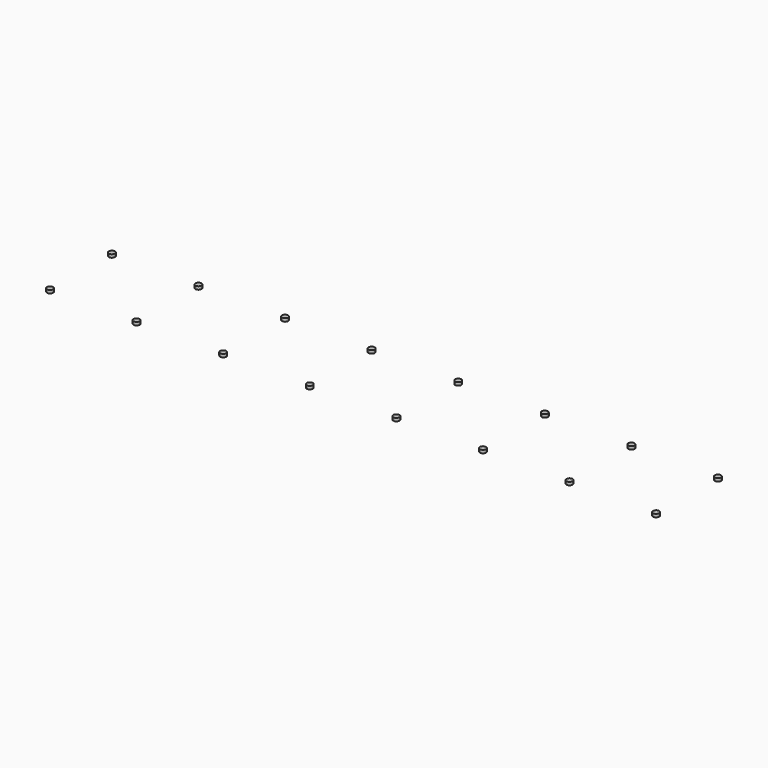
from build123d import *

# Parameters (mm, degrees)
F1_DEPTH = 1


with BuildPart() as f1:
    # F0 (on Top) → F1 (new body)
    with BuildSketch(Plane.XY):
        with BuildLine():
            ThreePointArc((196, 24), (196.7071067812, 24.2928932188), (197, 25))
            Line((197, 25), (196, 25))
            Line((196, 25), (196, 24))
        make_face()
        with BuildLine():
            Line((196, 25), (196, 26))
            ThreePointArc((196, 26), (195.2928932188, 25.7071067812), (195, 25))
            Line((195, 25), (196, 25))
        make_face()
        with BuildLine():
            ThreePointArc((195, 25), (195.2928932188, 24.2928932188), (196, 24))
            Line((196, 24), (196, 25))
            Line((196, 25), (195, 25))
        make_face()
        with BuildLine():
            Line((196, 25), (197, 25))
            ThreePointArc((197, 25), (196.7071067812, 25.7071067812), (196, 26))
            Line((196, 26), (196, 25))
        make_face()
    extrude(amount=F1_DEPTH)


with BuildPart() as f1b:
    # F0 (on Top) → F1, piece 2 (new body)
    with BuildSketch(Plane.XY):
        with BuildLine():
            Line((168, 25), (169, 25))
            ThreePointArc((169, 25), (168.7071067812, 25.7071067812), (168, 26))
            Line((168, 26), (168, 25))
        make_face()
        with BuildLine():
            Line((168, 25), (168, 26))
            ThreePointArc((168, 26), (167.2928932188, 25.7071067812), (167, 25))
            Line((167, 25), (168, 25))
        make_face()
        with BuildLine():
            ThreePointArc((167, 25), (167.2928932188, 24.2928932188), (168, 24))
            Line((168, 24), (168, 25))
            Line((168, 25), (167, 25))
        make_face()
        with BuildLine():
            ThreePointArc((168, 24), (168.7071067812, 24.2928932188), (169, 25))
            Line((169, 25), (168, 25))
            Line((168, 25), (168, 24))
        make_face()
    extrude(amount=F1_DEPTH)


with BuildPart() as f1c:
    # F0 (on Top) → F1, piece 3 (new body)
    with BuildSketch(Plane.XY):
        with BuildLine():
            Line((196, 0), (197, 0))
            ThreePointArc((197, 0), (196.7071067812, 0.7071067812), (196, 1))
            Line((196, 1), (196, 0))
        make_face()
        with BuildLine():
            Line((196, 0), (196, 1))
            ThreePointArc((196, 1), (195.2928932188, 0.7071067812), (195, 0))
            Line((195, 0), (196, 0))
        make_face()
        with BuildLine():
            ThreePointArc((195, 0), (195.2928932188, -0.7071067812), (196, -1))
            Line((196, -1), (196, 0))
            Line((196, 0), (195, 0))
        make_face()
        with BuildLine():
            ThreePointArc((196, -1), (196.7071067812, -0.7071067812), (197, 0))
            Line((197, 0), (196, 0))
            Line((196, 0), (196, -1))
        make_face()
    extrude(amount=F1_DEPTH)


with BuildPart() as f1d:
    # F0 (on Top) → F1, piece 4 (new body)
    with BuildSketch(Plane.XY):
        with BuildLine():
            Line((0, 25), (1, 25))
            ThreePointArc((1, 25), (0.7071067812, 25.7071067812), (0, 26))
            Line((0, 26), (0, 25))
        make_face()
        with BuildLine():
            Line((0, 25), (0, 26))
            ThreePointArc((0, 26), (-0.7071067812, 25.7071067812), (-1, 25))
            Line((-1, 25), (0, 25))
        make_face()
        with BuildLine():
            ThreePointArc((-1, 25), (-0.7071067812, 24.2928932188), (0, 24))
            Line((0, 24), (0, 25))
            Line((0, 25), (-1, 25))
        make_face()
        with BuildLine():
            ThreePointArc((0, 24), (0.7071067812, 24.2928932188), (1, 25))
            Line((1, 25), (0, 25))
            Line((0, 25), (0, 24))
        make_face()
    extrude(amount=F1_DEPTH)


with BuildPart() as f1e:
    # F0 (on Top) → F1, piece 5 (new body)
    with BuildSketch(Plane.XY):
        with BuildLine():
            Line((28, 0), (29, 0))
            ThreePointArc((29, 0), (28.7071067812, 0.7071067812), (28, 1))
            Line((28, 1), (28, 0))
        make_face()
        with BuildLine():
            Line((28, 0), (28, 1))
            ThreePointArc((28, 1), (27.2928932188, 0.7071067812), (27, 0))
            Line((27, 0), (28, 0))
        make_face()
        with BuildLine():
            ThreePointArc((27, 0), (27.2928932188, -0.7071067812), (28, -1))
            Line((28, -1), (28, 0))
            Line((28, 0), (27, 0))
        make_face()
        with BuildLine():
            ThreePointArc((28, -1), (28.7071067812, -0.7071067812), (29, 0))
            Line((29, 0), (28, 0))
            Line((28, 0), (28, -1))
        make_face()
    extrude(amount=F1_DEPTH)


with BuildPart() as f1f:
    # F0 (on Top) → F1, piece 6 (new body)
    with BuildSketch(Plane.XY):
        with BuildLine():
            ThreePointArc((28, 24), (28.7071067812, 24.2928932188), (29, 25))
            Line((29, 25), (28, 25))
            Line((28, 25), (28, 24))
        make_face()
        with BuildLine():
            Line((28, 25), (28, 26))
            ThreePointArc((28, 26), (27.2928932188, 25.7071067812), (27, 25))
            Line((27, 25), (28, 25))
        make_face()
        with BuildLine():
            ThreePointArc((27, 25), (27.2928932188, 24.2928932188), (28, 24))
            Line((28, 24), (28, 25))
            Line((28, 25), (27, 25))
        make_face()
        with BuildLine():
            Line((28, 25), (29, 25))
            ThreePointArc((29, 25), (28.7071067812, 25.7071067812), (28, 26))
            Line((28, 26), (28, 25))
        make_face()
    extrude(amount=F1_DEPTH)


with BuildPart() as f1g:
    # F0 (on Top) → F1, piece 7 (new body)
    with BuildSketch(Plane.XY):
        with BuildLine():
            Line((56, 0), (57, 0))
            ThreePointArc((57, 0), (56.7071067812, 0.7071067812), (56, 1))
            Line((56, 1), (56, 0))
        make_face()
        with BuildLine():
            Line((56, 0), (56, 1))
            ThreePointArc((56, 1), (55.2928932188, 0.7071067812), (55, 0))
            Line((55, 0), (56, 0))
        make_face()
        with BuildLine():
            ThreePointArc((55, 0), (55.2928932188, -0.7071067812), (56, -1))
            Line((56, -1), (56, 0))
            Line((56, 0), (55, 0))
        make_face()
        with BuildLine():
            ThreePointArc((56, -1), (56.7071067812, -0.7071067812), (57, 0))
            Line((57, 0), (56, 0))
            Line((56, 0), (56, -1))
        make_face()
    extrude(amount=F1_DEPTH)


with BuildPart() as f1h:
    # F0 (on Top) → F1, piece 8 (new body)
    with BuildSketch(Plane.XY):
        with BuildLine():
            Line((56, 25), (57, 25))
            ThreePointArc((57, 25), (56.7071067812, 25.7071067812), (56, 26))
            Line((56, 26), (56, 25))
        make_face()
        with BuildLine():
            Line((56, 25), (56, 26))
            ThreePointArc((56, 26), (55.2928932188, 25.7071067812), (55, 25))
            Line((55, 25), (56, 25))
        make_face()
        with BuildLine():
            ThreePointArc((55, 25), (55.2928932188, 24.2928932188), (56, 24))
            Line((56, 24), (56, 25))
            Line((56, 25), (55, 25))
        make_face()
        with BuildLine():
            ThreePointArc((56, 24), (56.7071067812, 24.2928932188), (57, 25))
            Line((57, 25), (56, 25))
            Line((56, 25), (56, 24))
        make_face()
    extrude(amount=F1_DEPTH)


with BuildPart() as f1i:
    # F0 (on Top) → F1, piece 9 (new body)
    with BuildSketch(Plane.XY):
        with BuildLine():
            Line((84, 0), (85, 0))
            ThreePointArc((85, 0), (84.7071067812, 0.7071067812), (84, 1))
            Line((84, 1), (84, 0))
        make_face()
        with BuildLine():
            Line((84, 0), (84, 1))
            ThreePointArc((84, 1), (83.2928932188, 0.7071067812), (83, 0))
            Line((83, 0), (84, 0))
        make_face()
        with BuildLine():
            ThreePointArc((83, 0), (83.2928932188, -0.7071067812), (84, -1))
            Line((84, -1), (84, 0))
            Line((84, 0), (83, 0))
        make_face()
        with BuildLine():
            ThreePointArc((84, -1), (84.7071067812, -0.7071067812), (85, 0))
            Line((85, 0), (84, 0))
            Line((84, 0), (84, -1))
        make_face()
    extrude(amount=F1_DEPTH)


with BuildPart() as f1j:
    # F0 (on Top) → F1, piece 10 (new body)
    with BuildSketch(Plane.XY):
        with BuildLine():
            ThreePointArc((84, 24), (84.7071067812, 24.2928932188), (85, 25))
            Line((85, 25), (84, 25))
            Line((84, 25), (84, 24))
        make_face()
        with BuildLine():
            ThreePointArc((83, 25), (83.2928932188, 24.2928932188), (84, 24))
            Line((84, 24), (84, 25))
            Line((84, 25), (83, 25))
        make_face()
        with BuildLine():
            Line((84, 25), (85, 25))
            ThreePointArc((85, 25), (84.7071067812, 25.7071067812), (84, 26))
            Line((84, 26), (84, 25))
        make_face()
        with BuildLine():
            Line((84, 25), (84, 26))
            ThreePointArc((84, 26), (83.2928932188, 25.7071067812), (83, 25))
            Line((83, 25), (84, 25))
        make_face()
    extrude(amount=F1_DEPTH)


with BuildPart() as f1k:
    # F0 (on Top) → F1, piece 11 (new body)
    with BuildSketch(Plane.XY):
        with BuildLine():
            Line((112, 0), (113, 0))
            ThreePointArc((113, 0), (112.7071067812, 0.7071067812), (112, 1))
            Line((112, 1), (112, 0))
        make_face()
        with BuildLine():
            Line((112, 0), (112, 1))
            ThreePointArc((112, 1), (111.2928932188, 0.7071067812), (111, 0))
            Line((111, 0), (112, 0))
        make_face()
        with BuildLine():
            ThreePointArc((111, 0), (111.2928932188, -0.7071067812), (112, -1))
            Line((112, -1), (112, 0))
            Line((112, 0), (111, 0))
        make_face()
        with BuildLine():
            ThreePointArc((112, -1), (112.7071067812, -0.7071067812), (113, 0))
            Line((113, 0), (112, 0))
            Line((112, 0), (112, -1))
        make_face()
    extrude(amount=F1_DEPTH)


with BuildPart() as f1l:
    # F0 (on Top) → F1, piece 12 (new body)
    with BuildSketch(Plane.XY):
        with BuildLine():
            Line((112, 25), (113, 25))
            ThreePointArc((113, 25), (112.7071067812, 25.7071067812), (112, 26))
            Line((112, 26), (112, 25))
        make_face()
        with BuildLine():
            Line((112, 25), (112, 26))
            ThreePointArc((112, 26), (111.2928932188, 25.7071067812), (111, 25))
            Line((111, 25), (112, 25))
        make_face()
        with BuildLine():
            ThreePointArc((111, 25), (111.2928932188, 24.2928932188), (112, 24))
            Line((112, 24), (112, 25))
            Line((112, 25), (111, 25))
        make_face()
        with BuildLine():
            ThreePointArc((112, 24), (112.7071067812, 24.2928932188), (113, 25))
            Line((113, 25), (112, 25))
            Line((112, 25), (112, 24))
        make_face()
    extrude(amount=F1_DEPTH)


with BuildPart() as f1m:
    # F0 (on Top) → F1, piece 13 (new body)
    with BuildSketch(Plane.XY):
        with BuildLine():
            Line((140, 0), (141, 0))
            ThreePointArc((141, 0), (140.7071067812, 0.7071067812), (140, 1))
            Line((140, 1), (140, 0))
        make_face()
        with BuildLine():
            Line((140, 0), (140, 1))
            ThreePointArc((140, 1), (139.2928932188, 0.7071067812), (139, 0))
            Line((139, 0), (140, 0))
        make_face()
        with BuildLine():
            ThreePointArc((139, 0), (139.2928932188, -0.7071067812), (140, -1))
            Line((140, -1), (140, 0))
            Line((140, 0), (139, 0))
        make_face()
        with BuildLine():
            ThreePointArc((140, -1), (140.7071067812, -0.7071067812), (141, 0))
            Line((141, 0), (140, 0))
            Line((140, 0), (140, -1))
        make_face()
    extrude(amount=F1_DEPTH)


with BuildPart() as f1n:
    # F0 (on Top) → F1, piece 14 (new body)
    with BuildSketch(Plane.XY):
        with BuildLine():
            ThreePointArc((140, 24), (140.7071067812, 24.2928932188), (141, 25))
            Line((141, 25), (140, 25))
            Line((140, 25), (140, 24))
        make_face()
        with BuildLine():
            Line((140, 25), (140, 26))
            ThreePointArc((140, 26), (139.2928932188, 25.7071067812), (139, 25))
            Line((139, 25), (140, 25))
        make_face()
        with BuildLine():
            ThreePointArc((139, 25), (139.2928932188, 24.2928932188), (140, 24))
            Line((140, 24), (140, 25))
            Line((140, 25), (139, 25))
        make_face()
        with BuildLine():
            Line((140, 25), (141, 25))
            ThreePointArc((141, 25), (140.7071067812, 25.7071067812), (140, 26))
            Line((140, 26), (140, 25))
        make_face()
    extrude(amount=F1_DEPTH)


with BuildPart() as f1o:
    # F0 (on Top) → F1, piece 15 (new body)
    with BuildSketch(Plane.XY):
        with BuildLine():
            Line((168, 0), (169, 0))
            ThreePointArc((169, 0), (168.7071067812, 0.7071067812), (168, 1))
            Line((168, 1), (168, 0))
        make_face()
        with BuildLine():
            Line((168, 0), (168, 1))
            ThreePointArc((168, 1), (167.2928932188, 0.7071067812), (167, 0))
            Line((167, 0), (168, 0))
        make_face()
        with BuildLine():
            ThreePointArc((167, 0), (167.2928932188, -0.7071067812), (168, -1))
            Line((168, -1), (168, 0))
            Line((168, 0), (167, 0))
        make_face()
        with BuildLine():
            ThreePointArc((168, -1), (168.7071067812, -0.7071067812), (169, 0))
            Line((169, 0), (168, 0))
            Line((168, 0), (168, -1))
        make_face()
    extrude(amount=F1_DEPTH)


with BuildPart() as f1p:
    # F0 (on Top) → F1, piece 16 (new body)
    with BuildSketch(Plane.XY):
        with BuildLine():
            Line((0, 0), (1, 0))
            ThreePointArc((1, 0), (0.7071067812, 0.7071067812), (0, 1))
            Line((0, 1), (0, 0))
        make_face()
        with BuildLine():
            Line((0, 0), (0, 1))
            ThreePointArc((0, 1), (-0.7071067812, 0.7071067812), (-1, 0))
            Line((-1, 0), (0, 0))
        make_face()
        with BuildLine():
            ThreePointArc((-1, 0), (-0.7071067812, -0.7071067812), (0, -1))
            Line((0, -1), (0, 0))
            Line((0, 0), (-1, 0))
        make_face()
        with BuildLine():
            ThreePointArc((0, -1), (0.7071067812, -0.7071067812), (1, 0))
            Line((1, 0), (0, 0))
            Line((0, 0), (0, -1))
        make_face()
    extrude(amount=F1_DEPTH)


solid = Compound([f1.part, f1b.part, f1c.part, f1d.part, f1e.part, f1f.part, f1g.part, f1h.part, f1i.part, f1j.part, f1k.part, f1l.part, f1m.part, f1n.part, f1o.part, f1p.part])
